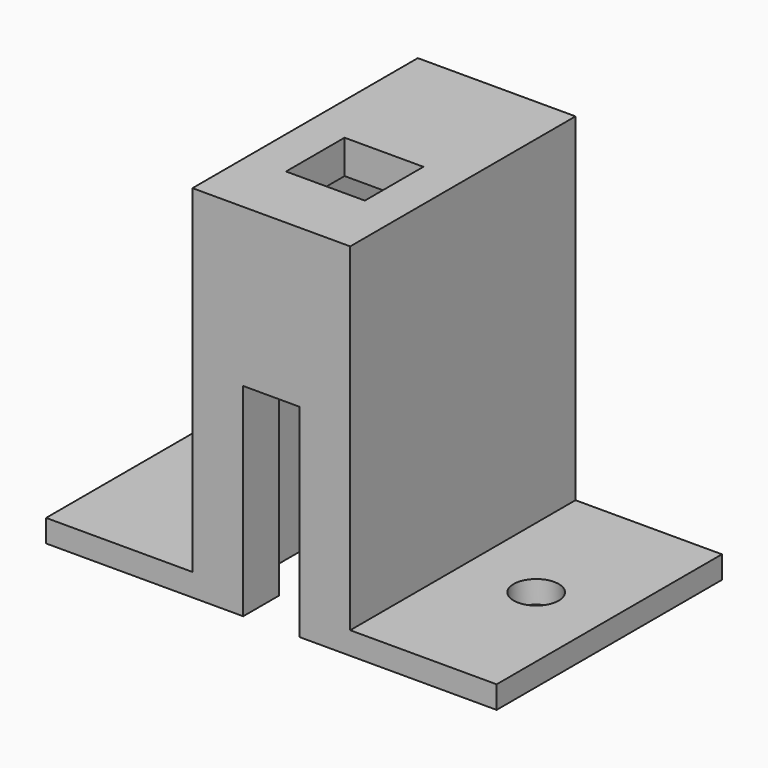
from build123d import *

# Parameters (mm, degrees)
F0_W      = 40
F0_H      = 25
F1_DEPTH  = 2
F2_W      = 14
F2_H      = 25
F3_DEPTH  = 30
F5_D      = 4
F6_W      = 11
F6_H      = 17
F7_DEPTH  = 29
F9_DEPTH  = 3
F11_DEPTH = 5
F13_DEPTH = 5


with BuildPart() as f1:
    # F0 (on Top) → F1 (new body)
    with BuildSketch(Plane.XY):
        Rectangle(F0_W, F0_H)
    extrude(amount=F1_DEPTH)

    # F2 (on face) → F3 (join)
    with BuildSketch(Plane.XY.offset(2)):
        Rectangle(F2_W, F2_H)
    extrude(amount=F3_DEPTH)

    # F5 (through all)
    with Locations(Plane.XY.offset(2)):
        with Locations((13.51337, 0), (-13.51337, 0)):
            Hole(F5_D / 2)

    # F6 (on face) → F7 (cut)
    with BuildSketch(Plane(origin=(0, 0, 0), x_dir=(1, 0, 0), z_dir=(0, 0, -1))):
        Rectangle(F6_W, F6_H)
    extrude(amount=-F7_DEPTH, mode=Mode.SUBTRACT)

    # F8 (on face) → F9 (cut)
    with BuildSketch(Plane.XY.offset(32)):
        Polygon((-3.5, -6.5), (0, -6.5), (3.5, -6.5), (3.5, 0), (-3.5, 0), align=None)
    extrude(amount=-F9_DEPTH, mode=Mode.SUBTRACT)

    # F10 (on face) → F11 (cut)
    with BuildSketch(Plane.XZ.offset(12.5)):
        Polygon((-2.5, 0), (0, 0), (2.5, 0), (2.5, 18), (-2.5, 18), align=None)
    extrude(amount=-F11_DEPTH, mode=Mode.SUBTRACT)

    # F12 (on face) → F13 (cut)
    with BuildSketch(Plane(origin=(0, 12.5, 0), x_dir=(-1, 0, 0), z_dir=(0, 1, 0))):
        Polygon((-4, 0), (0, 0), (4, 0), (4, 26), (0, 26), (-4, 26), align=None)
    extrude(amount=-F13_DEPTH, mode=Mode.SUBTRACT)


solid = f1.part
